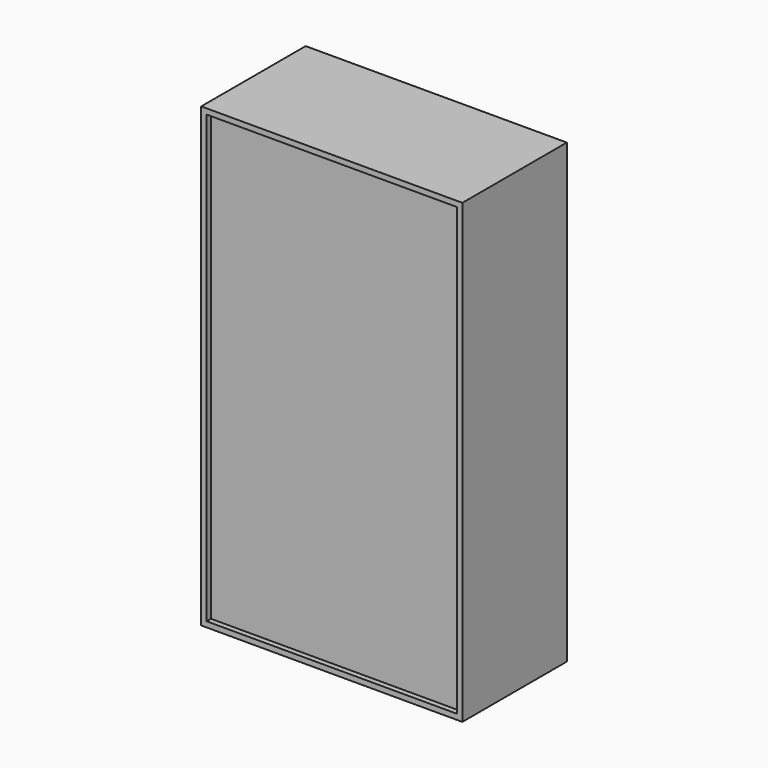
from build123d import *

# Parameters (mm, degrees)
BOX017_W     = 1168.4
BOX017_H     = 25.4
BOX017_DEPTH = 2082.8
BOX016_W     = 1219.2
BOX016_H     = 609.6
BOX016_DEPTH = 2133.6


with BuildPart() as cube017:
    # Box017 → Box017 (new body)
    with BuildSketch(Plane(origin=(25.4, 0, 25.4), x_dir=(1, 0, 0), z_dir=(0, 0, 1))):
        with Locations((584.2, 12.7)):
            Rectangle(BOX017_W, BOX017_H)
    extrude(amount=BOX017_DEPTH)


with BuildPart() as cut005:
    # Box016 → Box016 (new body)
    with BuildSketch(Plane.XY):
        with Locations((609.6, 304.8)):
            Rectangle(BOX016_W, BOX016_H)
    extrude(amount=BOX016_DEPTH)

    # Cut005: cut Cube017
    add(cube017.part, mode=Mode.SUBTRACT)


with BuildPart() as cut005_1:
    # Cut005 placement: moved
    add(cut005.part.moved(Location((5575, 2613, 0))))


solid = cut005_1.part
